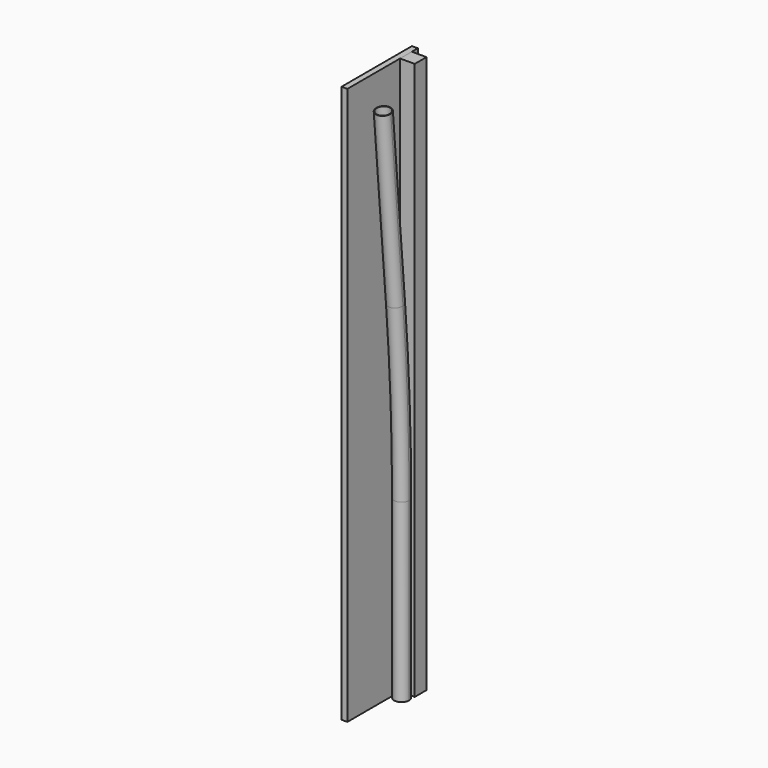
from build123d import *

# Parameters (mm, degrees)
F0_R     = 25.5
F0_R_2   = 23.75
F3_W     = 20
F3_H     = 300
F4_DEPTH = 1900
F7_DEPTH = 1900


with BuildPart() as f2:
    # F2: sweep along a path in F1
    with BuildLine(Plane.YZ) as f2_path:
        Line((0, 0), (0, 600))
        ThreePointArc((0, 600), (-6.4657987929, 897.7190217698), (-25.8510022272, 1194.8766169368))
        Line((-25.8510022272, 1194.8766169368), (-77.9, 1792.6147718432))
    # F0 (on Top) → F2 (sweep)
    with BuildSketch(Plane.XY):
        Circle(F0_R)
        Circle(F0_R_2, mode=Mode.SUBTRACT)
    sweep(path=f2_path.line)

    # F3 (on Top) → F4 (join)
    with BuildSketch(Plane.XY):
        with Locations((-35.5, -49)):
            Rectangle(F3_W, F3_H)
    extrude(amount=F4_DEPTH)


with BuildPart() as f7:
    # F6 (on Top) → F7 (new body)
    with BuildSketch(Plane.XY):
        Polygon((-25.5, 25.5), (0, 25.5), (24.5, 25.5), (24.5, 75.5), (-25.5, 75.5), align=None)
    extrude(amount=F7_DEPTH)


solid = Compound([f2.part, f7.part])
